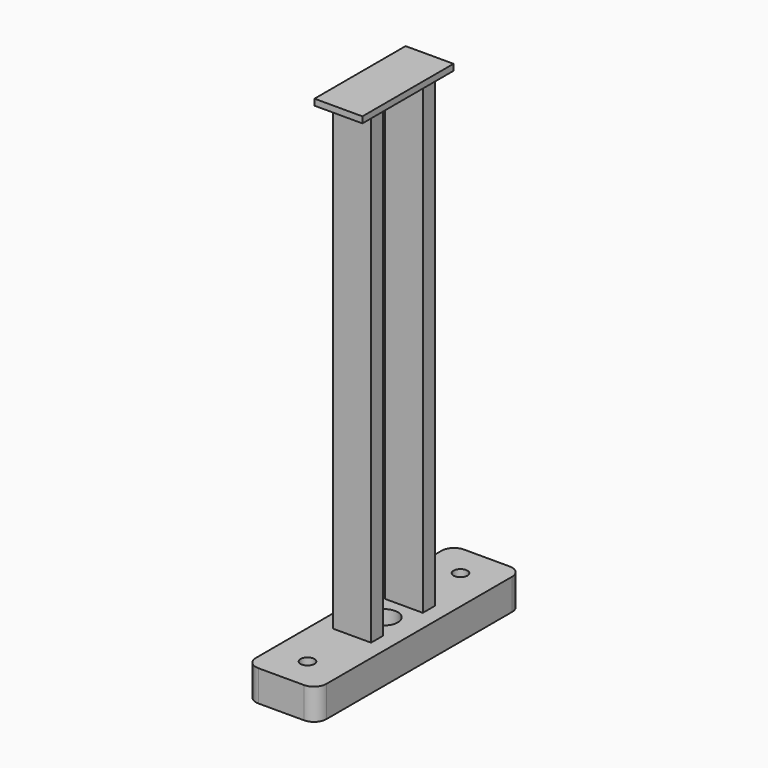
from build123d import *

# Parameters (mm, degrees)
F0_R     = 5.550353
F0_W     = 30.522084
F0_H     = 12.115386
F0_R_2   = 11.169447
F1_DEPTH = 25
F2_DEPTH = 400
F3_W     = 38.587202
F3_H     = 91.675318
F4_DEPTH = 5


with BuildPart() as f1:
    # F0 (on Top) → F1 (new body)
    with BuildSketch(Plane.XY):
        with BuildLine():
            ThreePointArc((28.360015, 93.460975), (25.431083, 100.532043), (18.360015, 103.460975))
            Line((18.360015, 103.460975), (-18.360015, 103.460975))
            ThreePointArc((-18.360015, 103.460975), (-25.431083, 100.532043), (-28.360015, 93.460975))
            Line((-28.360015, 93.460975), (-28.360015, -93.460975))
            ThreePointArc((-28.360015, -93.460975), (-25.431083, -100.532043), (-18.360015, -103.460975))
            Line((-18.360015, -103.460975), (18.360015, -103.460975))
            ThreePointArc((18.360015, -103.460975), (25.431083, -100.532043), (28.360015, -93.460975))
            Line((28.360015, -93.460975), (28.360015, 93.460975))
        make_face()
        with Locations((0, -76.995626)):
            Circle(F0_R, mode=Mode.SUBTRACT)
        with Locations((0, -26.03974)):
            Rectangle(F0_W, F0_H, mode=Mode.SUBTRACT)
        Circle(F0_R_2, mode=Mode.SUBTRACT)
        with Locations((0, 26.03974)):
            Rectangle(F0_W, F0_H, mode=Mode.SUBTRACT)
        with Locations((0, 76.995626)):
            Circle(F0_R, mode=Mode.SUBTRACT)
        with Locations((0, -26.03974)):
            Rectangle(F0_W, F0_H)
        with Locations((0, 26.03974)):
            Rectangle(F0_W, F0_H)
    extrude(amount=F1_DEPTH)

    # F0 (on Top) → F2 (join)
    with BuildSketch(Plane.XY):
        with Locations((0, -26.03974)):
            Rectangle(F0_W, F0_H)
        with Locations((0, 26.03974)):
            Rectangle(F0_W, F0_H)
    extrude(amount=F2_DEPTH)

    # F3 (on face) → F4 (join)
    with BuildSketch(Plane.XY.offset(400)):
        Rectangle(F3_W, F3_H)
    extrude(amount=F4_DEPTH)


solid = f1.part
